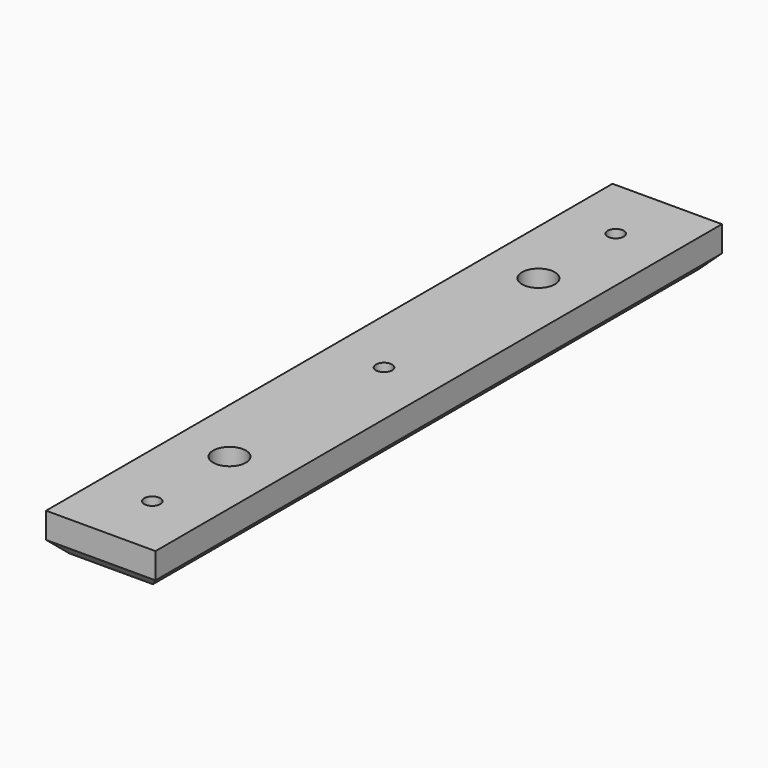
from build123d import *

# Parameters (mm, degrees)
SKETCH_W      = 17
SKETCH_H      = 110
PAD_DEPTH     = 6
SKETCH001_R   = 2.55
HOLE_DEPTH    = 6
SKETCH002_R   = 1.25
HOLE001_DEPTH = 6
CHAMFER_SIZE  = 2


with BuildPart() as part:
    # Sketch → Pad (new body)
    with BuildSketch(Plane.XY):
        Rectangle(SKETCH_W, SKETCH_H)
    extrude(amount=PAD_DEPTH)

    # Sketch001 → Hole (cut)
    with BuildSketch(Plane.XY):
        with Locations((0, 30)):
            Circle(SKETCH001_R)
        with Locations((0, -30)):
            Circle(SKETCH001_R)
    extrude(amount=HOLE_DEPTH, mode=Mode.SUBTRACT)

    # Sketch002 (on Face6 of Pad) → Hole001 (cut)
    with BuildSketch(Plane.XY.offset(6)):
        with Locations((0, 45)):
            Circle(SKETCH002_R)
        with Locations((0, -45)):
            Circle(SKETCH002_R)
        Circle(SKETCH002_R)
    extrude(amount=-HOLE001_DEPTH, mode=Mode.SUBTRACT)

    # Chamfer
    chamfer_edges = [part.edges().sort_by_distance(p)[0] for p in [
        (0, -55, 0),
        (0, 55, 0),
        (-8.5, 0, 0),
        (8.5, 0, 0),
    ]]
    chamfer(chamfer_edges, length=CHAMFER_SIZE)


solid = part.part
